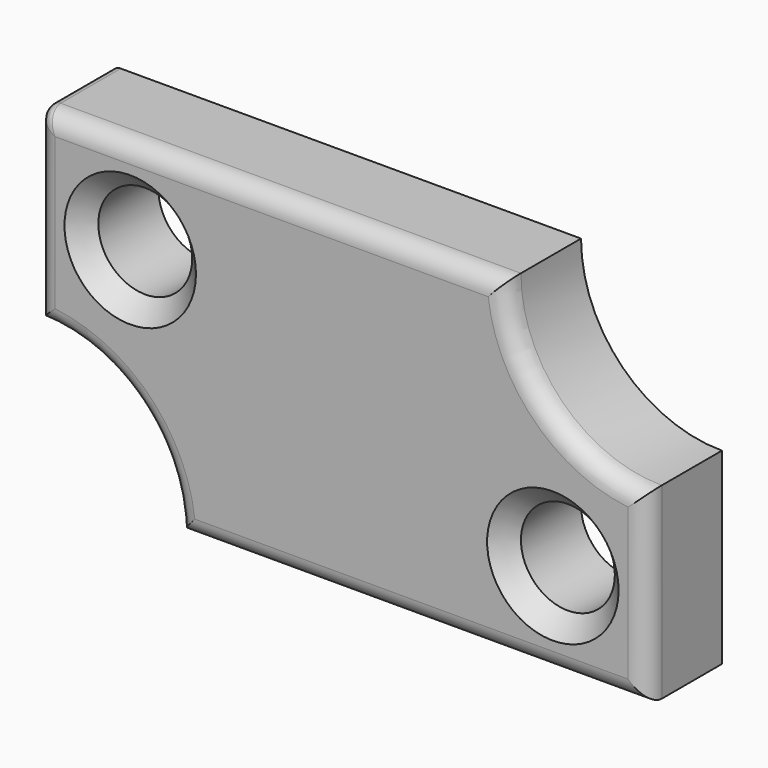
from build123d import *

# Parameters (mm, degrees)
SKETCH_R     = 5
PAD_DEPTH    = 10
CHAMFER_SIZE = 2
FILLET_R     = 2
FILLET001_R  = 1


with BuildPart() as part:
    # Sketch → Pad (new body)
    with BuildSketch(Plane.XZ):
        with BuildLine():
            Line((0, 35), (50, 35))
            ThreePointArc((50, 35), (54.393398, 24.393398), (65, 20))
            Line((65, 20), (65, 0))
            Line((65, 0), (15, 0))
            ThreePointArc((15, 0), (10.606602, 10.606602), (0, 15))
            Line((0, 15), (0, 35))
        make_face()
        with Locations((10, 25)):
            Circle(SKETCH_R, mode=Mode.SUBTRACT)
        with Locations((55, 10)):
            Circle(SKETCH_R, mode=Mode.SUBTRACT)
    extrude(amount=PAD_DEPTH)

    # Chamfer
    chamfer_edges = [part.edges().sort_by_distance(p)[0] for p in [
        (5, -10, 25),
        (50, -10, 10),
    ]]
    chamfer(chamfer_edges, length=CHAMFER_SIZE)

    # Fillet
    fillet_edges = [part.edges().sort_by_distance(p)[0] for p in [
        (65, -10, 10),
        (40, -10, 0),
        (0, -10, 25),
        (25, -10, 35),
        (54.393398, -10, 24.393398),
        (10.606602, -10, 10.606602),
    ]]
    fillet(fillet_edges, radius=FILLET_R)

    # Fillet001
    fillet001_edges = [part.edges().sort_by_distance(p)[0] for p in [
        (0, -4, 35),
    ]]
    fillet(fillet001_edges, radius=FILLET001_R)


solid = part.part
